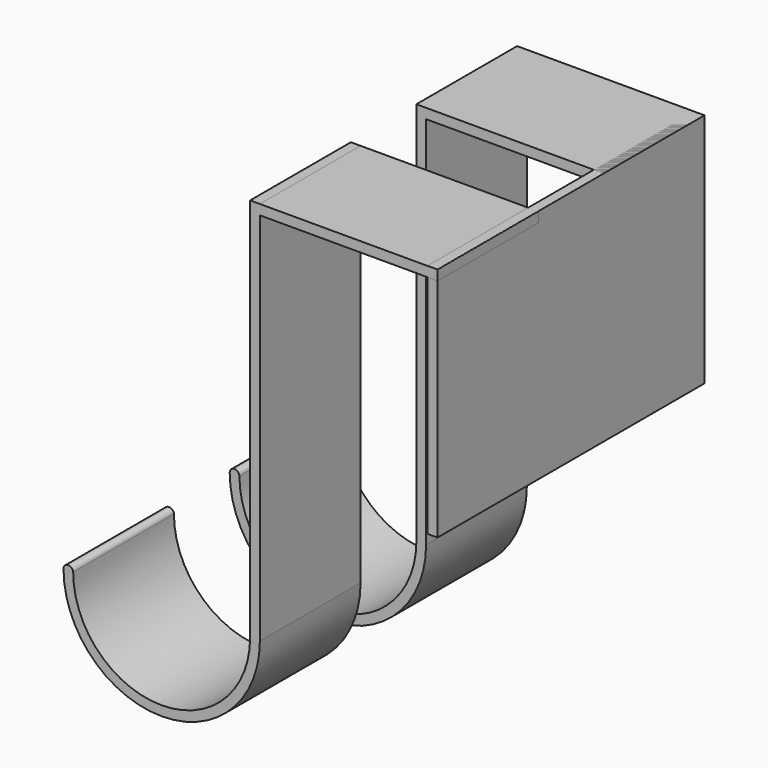
from build123d import *

# Parameters (mm, degrees)
F0_W     = 25.4
F0_H     = 1.425943
F1_DEPTH = 18
F3_W     = 25.4
F3_H     = 1.425942
F4_DEPTH = 18
F5_W     = 47.717995
F5_H     = 33.732459
F6_DEPTH = 1.425931


with BuildPart() as f1:
    # F0 (on Front) → F1 (new body)
    with BuildSketch(Plane.XZ):
        with Locations((-26.064605, 57.816789)):
            Rectangle(F0_W, F0_H)
        Polygon((-38.764605, 57.103818), (-38.764605, 58.529761), (-40.151687, 58.529761), (-40.151687, 3.529761), (-38.764605, 3.529761), align=None)
        with BuildLine():
            ThreePointArc((-66.832931, 3.529761), (-52.798768, -10.504403), (-38.764605, 3.529761))
            Line((-38.764605, 3.529761), (-40.151687, 3.529761))
            ThreePointArc((-40.151687, 3.529761), (-52.798762, -9.117314), (-65.445837, 3.529761))
            Line((-65.445837, 3.529761), (-66.832931, 3.529761))
        make_face()
        with BuildLine():
            ThreePointArc((-65.445837, 3.529761), (-66.139384, 4.18091), (-66.832931, 3.529761))
            Line((-66.832931, 3.529761), (-65.445837, 3.529761))
        make_face()
    extrude(amount=F1_DEPTH)


with BuildPart() as f4:
    # F3 (on offset) → F4 (new body)
    with BuildSketch(Plane.XZ.offset(-29.718)):
        with Locations((-26.079397, 57.828849)):
            Rectangle(F3_W, F3_H)
        Polygon((-38.779397, 57.115878), (-38.779397, 58.54182), (-40.166479, 58.54182), (-40.166479, 3.54182), (-38.779397, 3.54182), align=None)
        with BuildLine():
            ThreePointArc((-66.847723, 3.54182), (-52.81356, -10.492343), (-38.779397, 3.54182))
            Line((-38.779397, 3.54182), (-40.166479, 3.54182))
            ThreePointArc((-40.166479, 3.54182), (-52.813554, -9.105255), (-65.460629, 3.54182))
            Line((-65.460629, 3.54182), (-66.847723, 3.54182))
        make_face()
        with BuildLine():
            ThreePointArc((-65.460629, 3.54182), (-66.154176, 4.192969), (-66.847723, 3.54182))
            Line((-66.847723, 3.54182), (-65.460629, 3.54182))
        make_face()
    extrude(amount=F4_DEPTH)


with BuildPart() as f6:
    # F5 (on face) → F6 (new body)
    with BuildSketch(Plane.YZ.offset(-13.379397)):
        with Locations((5.859003, 41.67559)):
            Rectangle(F5_W, F5_H)
    extrude(amount=-F6_DEPTH)


solid = Compound([f1.part, f4.part, f6.part])
